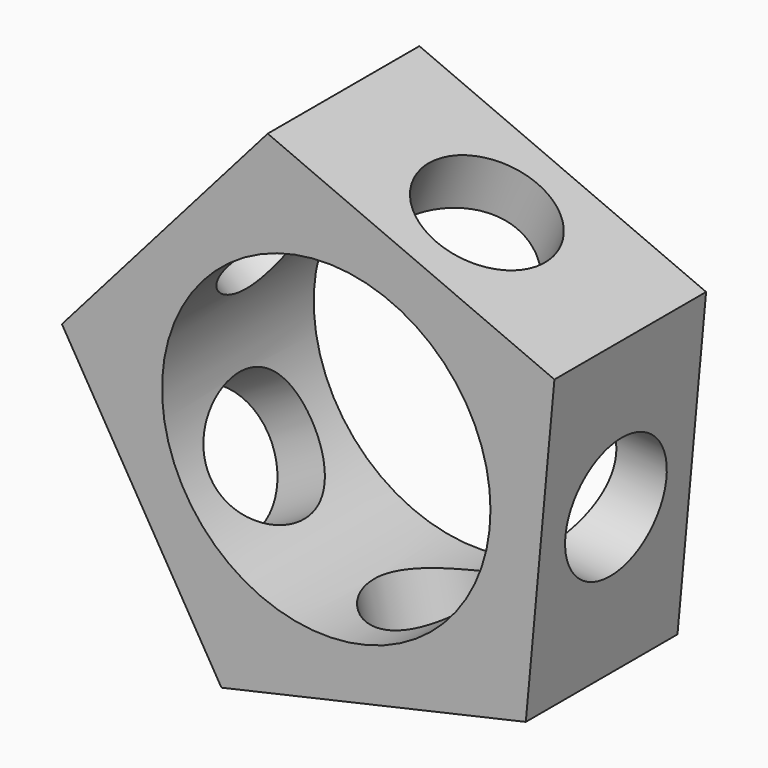
from build123d import *

# Parameters (mm, degrees)
F0_R      = 20.6375
F1_DEPTH  = 23.8252
F3_D      = 15.875
F3_DEPTH  = 12.7
F5_D      = 15.875
F5_DEPTH  = 12.7
F7_D      = 15.875
F7_DEPTH  = 12.7
F9_D      = 15.875
F9_DEPTH  = 12.7
F11_D     = 15.875
F11_DEPTH = 12.7


with BuildPart() as f1:
    # F0 (on Front) → F1 (new body)
    with BuildSketch(Plane.XZ):
        Polygon((-7.358128, 32.536745), (-33.21807, 3.056411), (-13.171768, -30.647779), (25.07747, -21.99778), (28.670496, 17.052403), align=None)
        Circle(F0_R, mode=Mode.SUBTRACT)
    extrude(amount=F1_DEPTH)

    # F3
    with Locations(Plane(origin=(26.873983, 0, -2.472689), x_dir=(0, 1, 0), z_dir=(0.995794, 0, -0.091623))):
        with Locations((-11.9126, 0)):
            Hole(F3_D / 2, depth=F3_DEPTH)

    # F5
    with Locations(Plane(origin=(10.656184, 0, 24.794574), x_dir=(0.918743, 0, -0.394856), z_dir=(0.394856, 0, 0.918743))):
        with Locations((0, -11.9126)):
            Hole(F5_D / 2, depth=F5_DEPTH)

    # F7
    with Locations(Plane(origin=(-23.194919, 0, -13.795684), x_dir=(0, -1, 0), z_dir=(-0.859469, 0, -0.511188))):
        with Locations((11.9126, 0)):
            Hole(F7_D / 2, depth=F7_DEPTH)

    # F9
    with Locations(Plane(origin=(-20.288099, 0, 17.796578), x_dir=(0, -1, 0), z_dir=(-0.751759, 0, 0.659438))):
        with Locations((11.9126, 0)):
            Hole(F9_D / 2, depth=F9_DEPTH)

    # F11
    with Locations(Plane(origin=(5.952851, 0, -26.32278), x_dir=(0.975369, 0, 0.220578), z_dir=(0.220578, 0, -0.975369))):
        with Locations((0, 11.9126)):
            Hole(F11_D / 2, depth=F11_DEPTH)


solid = f1.part
